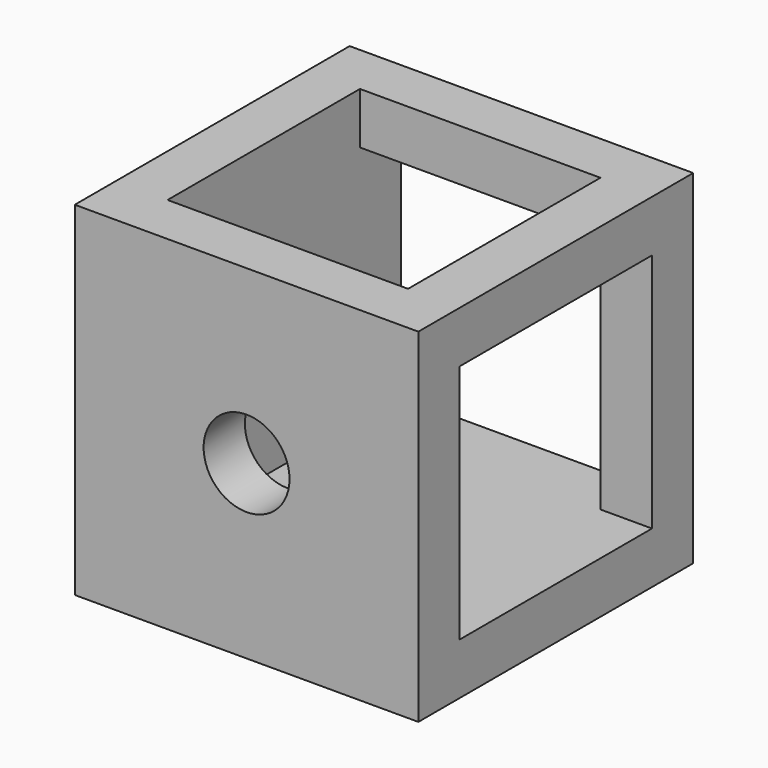
from build123d import *

# Parameters (mm, degrees)
SKETCH061_W     = 20
SKETCH061_H     = 20
PAD019_DEPTH    = 10
SKETCH062_R     = 2.5
HOLE022_DEPTH   = 25
SKETCH063_R     = 2.5
HOLE021_DEPTH   = 25
SKETCH064_R     = 2.5
HOLE023_DEPTH   = 25
SKETCH065_W     = 14
SKETCH065_H     = 14
POCKET023_DEPTH = 17
SKETCH066_W     = 14
SKETCH066_H     = 14
POCKET021_DEPTH = 17
SKETCH067_W     = 14
SKETCH067_H     = 14
POCKET022_DEPTH = 17


with BuildPart() as part:
    # Sketch061 → Pad019 (new body, symmetric)
    with BuildSketch(Plane.XZ):
        Rectangle(SKETCH061_W, SKETCH061_H)
    extrude(amount=PAD019_DEPTH, both=True)

    # Sketch062 (on Face1 of Pad019) → Hole022 (cut)
    with BuildSketch(Plane(origin=(0, 0, 10), x_dir=(-1, 0, 0), z_dir=(0, 0, 1))):
        Circle(SKETCH062_R)
    extrude(amount=-HOLE022_DEPTH, mode=Mode.SUBTRACT)

    # Sketch063 (on Face2 of Hole022) → Hole021 (cut)
    with BuildSketch(Plane(origin=(10, 0, 0), x_dir=(0, 0, 1), z_dir=(1, 0, 0))):
        Circle(SKETCH063_R)
    extrude(amount=-HOLE021_DEPTH, mode=Mode.SUBTRACT)

    # Sketch064 (on Face3 of Hole022) → Hole023 (cut)
    with BuildSketch(Plane(origin=(0, 10, 0), x_dir=(1, 0, 0), z_dir=(0, 1, 0))):
        Circle(SKETCH064_R)
    extrude(amount=-HOLE023_DEPTH, mode=Mode.SUBTRACT)

    # Sketch065 (on Face2 of Hole023) → Pocket023 (cut)
    with BuildSketch(Plane(origin=(10, 0, 0), x_dir=(0, 0, 1), z_dir=(1, 0, 0))):
        Rectangle(SKETCH065_W, SKETCH065_H)
    extrude(amount=-POCKET023_DEPTH, mode=Mode.SUBTRACT)

    # Sketch066 (on Face3 of Pocket023) → Pocket021 (cut)
    with BuildSketch(Plane(origin=(0, 10, 0), x_dir=(1, 0, 0), z_dir=(0, 1, 0))):
        Rectangle(SKETCH066_W, SKETCH066_H)
    extrude(amount=-POCKET021_DEPTH, mode=Mode.SUBTRACT)

    # Sketch067 (on Face1 of Pocket021) → Pocket022 (cut)
    with BuildSketch(Plane(origin=(0, 0, 10), x_dir=(-1, 0, 0), z_dir=(0, 0, 1))):
        Rectangle(SKETCH067_W, SKETCH067_H)
    extrude(amount=-POCKET022_DEPTH, mode=Mode.SUBTRACT)


solid = part.part
